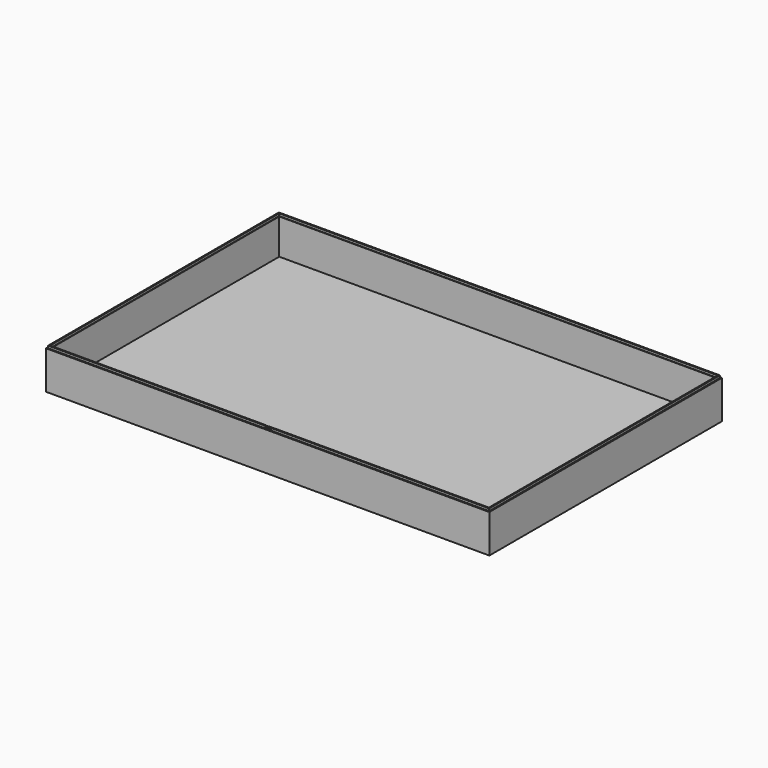
from build123d import *

# Parameters (mm, degrees)
F0_W          = 770
F0_H          = 505
F1_DEPTH      = 2
F1_DEPTH_BACK = 3
F2_W          = 760
F2_H          = 495
F3_DEPTH      = 61.5
F5_DEPTH      = 4
F7_DEPTH      = 25.4


with BuildPart() as f1:
    # F0 (on Top) → F1 (new body, two sides)
    with BuildSketch(Plane.XY) as f1_sk:
        Rectangle(F0_W, F0_H)
    extrude(amount=F1_DEPTH)
    extrude(f1_sk.sketch, amount=-F1_DEPTH_BACK)

    # F2 (on face) → F3 (join)
    with BuildSketch(Plane.XY.offset(2)):
        Polygon((-380, -252.5), (385, -252.5), (385, 247.5), (385, 252.5), (380, 252.5), (-385, 252.5), (-385, -247.5), (-385, -252.5), align=None)
        Rectangle(F2_W, F2_H, mode=Mode.SUBTRACT)
    extrude(amount=F3_DEPTH)

    # F4 (on face) → F5 (join)
    with BuildSketch(Plane.XY.offset(63.5)):
        Polygon((383, 250.5), (381, 250.5), (-383, 250.5), (-383, -248.5), (-383, -250.5), (-276, -250.5), (383, -250.5), (383, 248.5), align=None)
        Polygon((-381, -248.5), (-381, -247.5), (-381, 248.5), (380, 248.5), (381, 248.5), (381, 247.5), (381, -248.5), (-380, -248.5), align=None, mode=Mode.SUBTRACT)
    extrude(amount=F5_DEPTH)

    # F6 (on face) → F7 (cut)
    with BuildSketch(Plane.XZ.offset(250.5)):
        with BuildLine():
            Line((4.5, 67.5), (3.5, 67.5))
            Line((3.5, 67.5), (3.5, 66.5))
            ThreePointArc((3.5, 66.5), (4.5, 65.5), (5.5, 66.5))
            Line((5.5, 66.5), (5.5, 67.5))
            Line((5.5, 67.5), (4.5, 67.5))
        make_face()
        with BuildLine():
            Line((1.5, 67.5), (0.5, 67.5))
            Line((0.5, 67.5), (0.5, 66.5))
            ThreePointArc((0.5, 66.5), (1.5, 65.5), (2.5, 66.5))
            Line((2.5, 66.5), (2.5, 67.5))
            Line((2.5, 67.5), (1.5, 67.5))
        make_face()
        with BuildLine():
            Line((-3.5, 66.5), (-3.5, 67.5))
            Line((-3.5, 67.5), (-4.5, 67.5))
            Line((-4.5, 67.5), (-5.5, 67.5))
            Line((-5.5, 67.5), (-5.5, 66.5))
            ThreePointArc((-5.5, 66.5), (-4.5, 65.5), (-3.5, 66.5))
        make_face()
        with BuildLine():
            Line((-0.5, 66.5), (-0.5, 67.5))
            Line((-0.5, 67.5), (-1.5, 67.5))
            Line((-1.5, 67.5), (-2.5, 67.5))
            Line((-2.5, 67.5), (-2.5, 66.5))
            ThreePointArc((-2.5, 66.5), (-1.5, 65.5), (-0.5, 66.5))
        make_face()
    extrude(amount=-F7_DEPTH, mode=Mode.SUBTRACT)


solid = f1.part
